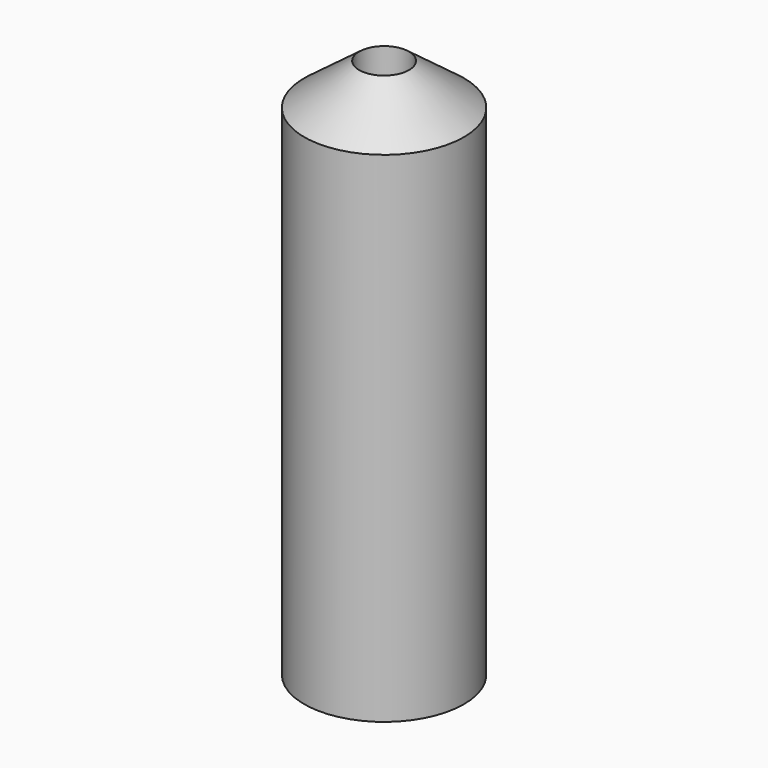
from build123d import *

# Parameters (mm, degrees)
F0_W     = 4
F0_H     = 25
F2_R     = 2.5
F3_DEPTH = 25
F4_R     = 1.25
F5_DEPTH = 25


with BuildPart() as f1:
    # F0 (on Front) → F1 (revolve)
    with BuildSketch(Plane.XZ):
        with Locations((2, 12.5)):
            Rectangle(F0_W, F0_H)
        Polygon((0, 28), (0, 25), (4, 25), align=None)
    revolve(axis=Axis((0, 0, 12.5), (0, 0, 1)))

    # F2 (on face) → F3 (cut)
    with BuildSketch(Plane(origin=(0, 0, 0), x_dir=(1, 0, 0), z_dir=(0, 0, -1))):
        Circle(F2_R)
    extrude(amount=-F3_DEPTH, mode=Mode.SUBTRACT)

    # F4 (on face) → F5 (cut)
    with BuildSketch(Plane(origin=(0, 0, 25), x_dir=(1, 0, 0), z_dir=(0, 0, -1))):
        Circle(F4_R)
    extrude(amount=-F5_DEPTH, mode=Mode.SUBTRACT)


solid = f1.part
